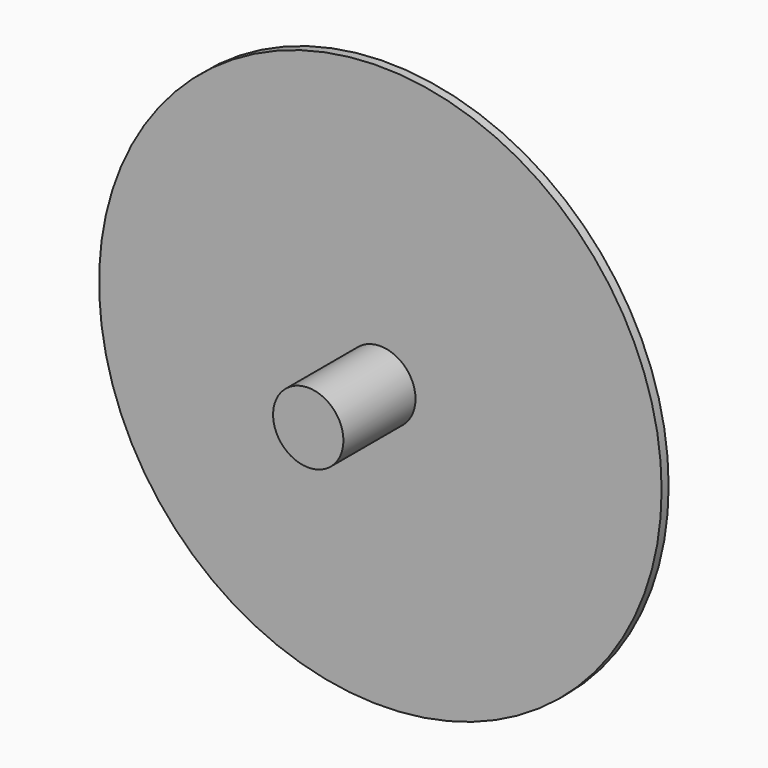
from build123d import *

# Parameters (mm, degrees)
F0_R     = 19.05
F1_DEPTH = 53.594
F0_R_2   = 152.4
F2_DEPTH = 4.7625
F0_W     = 457.2
F0_H     = 355.6
F3_DEPTH = 15.875


with BuildPart() as f1:
    # F0 (on Front) → F1 (new body)
    with BuildSketch(Plane.XZ):
        Circle(F0_R)
    extrude(amount=F1_DEPTH)

    # F0 (on Front) → F2 (join)
    with BuildSketch(Plane.XZ):
        Circle(F0_R_2)
        Circle(F0_R, mode=Mode.SUBTRACT)
    extrude(amount=F2_DEPTH)


with BuildPart() as f3:
    # F0 (on Front) → F3 (new body)
    with BuildSketch(Plane.XZ):
        Rectangle(F0_W, F0_H)
        Circle(F0_R_2, mode=Mode.SUBTRACT)
    extrude(amount=F3_DEPTH)


solid = f1.part
